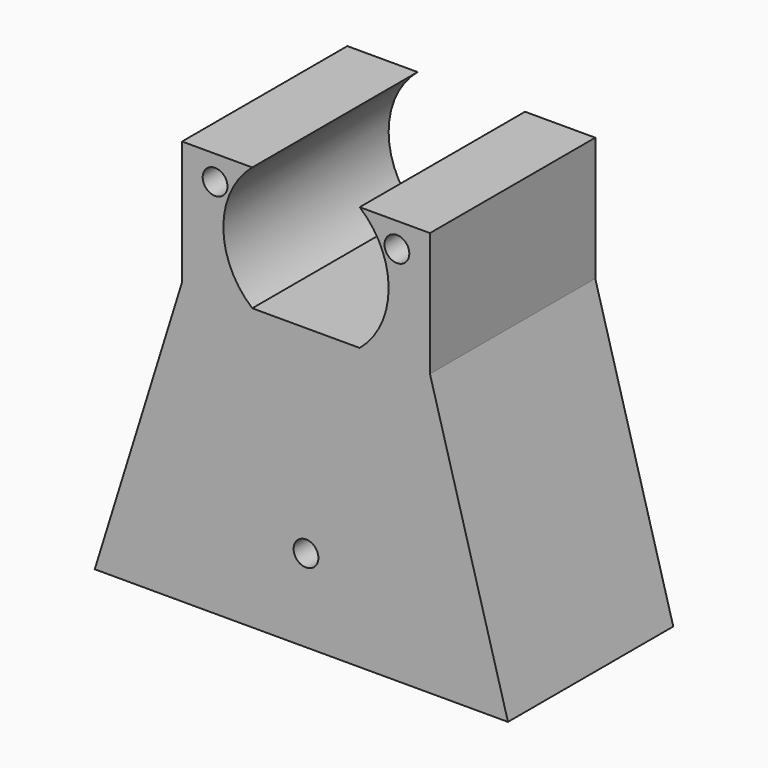
from build123d import *

# Parameters (mm, degrees)
F0_R     = 1.5
F1_DEPTH = 25
F2_R     = 1.5
F3_DEPTH = 10


with BuildPart() as f1:
    # F0 (on Front) → F1 (new body)
    with BuildSketch(Plane.XZ):
        with BuildLine():
            Line((6.5, 34), (15, 34))
            Line((15, 34), (15, 49))
            Line((15, 49), (6.5, 49))
            ThreePointArc((6.5, 49), (10, 41.5), (6.5, 34))
        make_face()
        with Locations((11, 46)):
            Circle(F0_R, mode=Mode.SUBTRACT)
        with BuildLine():
            Line((-15, 49), (-15, 34))
            Line((-15, 34), (-6.5, 34))
            ThreePointArc((-6.5, 34), (-10, 41.5), (-6.5, 49))
            Line((-6.5, 49), (-15, 49))
        make_face()
        with Locations((-11, 46)):
            Circle(F0_R, mode=Mode.SUBTRACT)
        Polygon((-15, 34), (-25.561607, 0), (24.438393, 0), (15, 34), (6.5, 34), (-6.5, 34), align=None)
        with Locations((0, 10)):
            Circle(F0_R, mode=Mode.SUBTRACT)
    extrude(amount=F1_DEPTH)

    # F2 (on face) → F3 (cut)
    with BuildSketch(Plane(origin=(0, 0, 0), x_dir=(1, 0, 0), z_dir=(0, 0, -1))):
        with Locations((-12.5, 12.5)):
            Circle(F2_R)
        with Locations((12.5, 12.5)):
            Circle(F2_R)
    extrude(amount=-F3_DEPTH, mode=Mode.SUBTRACT)


solid = f1.part
